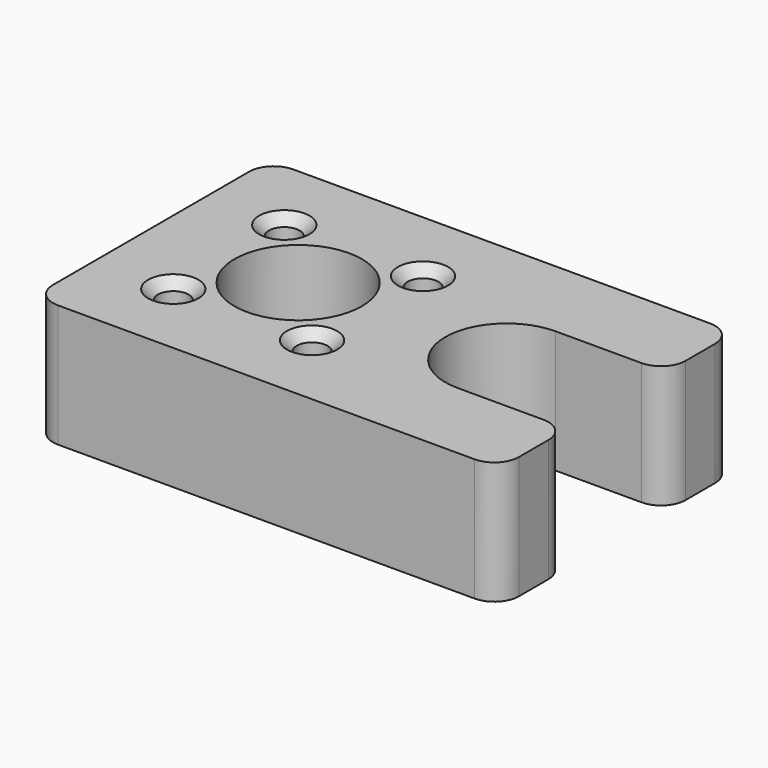
from build123d import *

# Parameters (mm, degrees)
F0_R     = 1.25
F0_R_2   = 5.2
F1_DEPTH = 10
F2_R     = 2
F3_SIZE  = 0.8


with BuildPart() as f1:
    # F0 (on Top) → F1 (new body)
    with BuildSketch(Plane.XY):
        with BuildLine():
            Line((19, 5), (19, 12))
            Line((19, 12), (-19, 12))
            Line((-19, 12), (-19, -12))
            Line((-19, -12), (19, -12))
            Line((19, -12), (19, -5))
            Line((19, -5), (10, -5))
            ThreePointArc((10, -5), (5, 0), (10, 5))
            Line((10, 5), (19, 5))
        make_face()
        with Locations((-12.656854, -5.656854)):
            Circle(F0_R, mode=Mode.SUBTRACT)
        with Locations((-1.343146, -5.656854)):
            Circle(F0_R, mode=Mode.SUBTRACT)
        with Locations((-12.656854, 5.656854)):
            Circle(F0_R, mode=Mode.SUBTRACT)
        with Locations((-7, 0)):
            Circle(F0_R_2, mode=Mode.SUBTRACT)
        with Locations((-1.343146, 5.656854)):
            Circle(F0_R, mode=Mode.SUBTRACT)
    extrude(amount=F1_DEPTH)

    # F2
    f2_edges = [f1.edges().sort_by_distance(p)[0] for p in [
        (-19, -12, 5),
        (-19, 12, 5),
        (19, -12, 5),
        (19, -5, 5),
        (19, 5, 5),
        (19, 12, 5),
    ]]
    fillet(f2_edges, radius=F2_R)

    # F3
    f3_edges = [f1.edges().sort_by_distance(p)[0] for p in [
        (-13.906854, 5.656854, 10),
        (-2.593146, 5.656854, 10),
        (-2.593146, -5.656854, 10),
        (-13.906854, -5.656854, 10),
    ]]
    chamfer(f3_edges, length=F3_SIZE)


solid = f1.part
